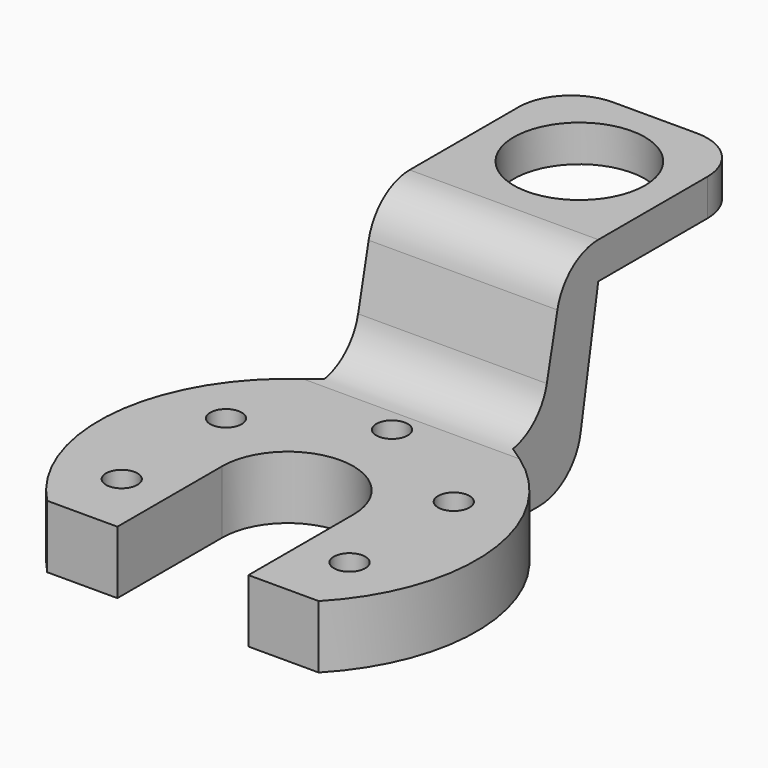
from build123d import *

# Parameters (mm, degrees)
F1_DEPTH      = 6
F3_DEPTH      = 9
F3_DEPTH_BACK = 9
F4_R          = 6.25
F5_DEPTH      = 25
F6_D          = 3
F7_R          = 5


with BuildPart() as f1:
    # F0 (on Top) → F1 (new body)
    with BuildSketch(Plane.XY):
        with BuildLine():
            Line((6.25, -12.4998748011), (12.9519546771, -12.4998748011))
            ThreePointArc((12.9519546771, -12.4998748011), (0, 18), (-12.9519546771, -12.4998748011))
            Line((-12.9519546771, -12.4998748011), (-6.25, -12.4998748011))
            Line((-6.25, -12.4998748011), (-6.25, 0))
            ThreePointArc((-6.25, 0), (0, 6.25), (6.25, 0))
            Line((6.25, 0), (6.25, -12.4998748011))
        make_face()
    extrude(amount=F1_DEPTH)

    # F2 (on Right) → F3 (join, two sides)
    with BuildSketch(Plane.YZ) as f3_sk:
        Polygon((11.0055337464, 0), (22.9271929711, 0), (25.7638388276, 16), (43.7638388276, 16), (43.7638388276, 19.5), (21.7638388276, 19.5), (18.7638388276, 6), (11.0055337464, 6), align=None)
    extrude(amount=F3_DEPTH)
    extrude(f3_sk.sketch, amount=-F3_DEPTH_BACK)

    # F4 (on face) → F5 (cut)
    with BuildSketch(Plane(origin=(0, 0, 16), x_dir=(1, 0, 0), z_dir=(0, 0, -1))):
        with Locations((0, -34.7638388276)):
            Circle(F4_R)
    extrude(amount=-F5_DEPTH, mode=Mode.SUBTRACT)

    # F6 (through all)
    with Locations(Plane(origin=(0, 0, 0), x_dir=(1, 0, 0), z_dir=(0, 0, -1))):
        with Locations((10.7972361083, -6.2983880813), (10.8531821354, 6.2014867198), (-0.0559460271, -12.4998748011), (-10.8531821354, -6.2014867198), (-10.7972361083, 6.2983880813)):
            Hole(F6_D / 2)

    # F7
    f7_edges = [f1.edges().sort_by_distance(p)[0] for p in [
        (0, 18.763839, 6),
        (0, 21.763839, 19.5),
        (0, 22.927193, 0),
        (-9, 43.763839, 17.75),
        (9, 43.763839, 17.75),
    ]]
    fillet(f7_edges, radius=F7_R)


solid = f1.part
